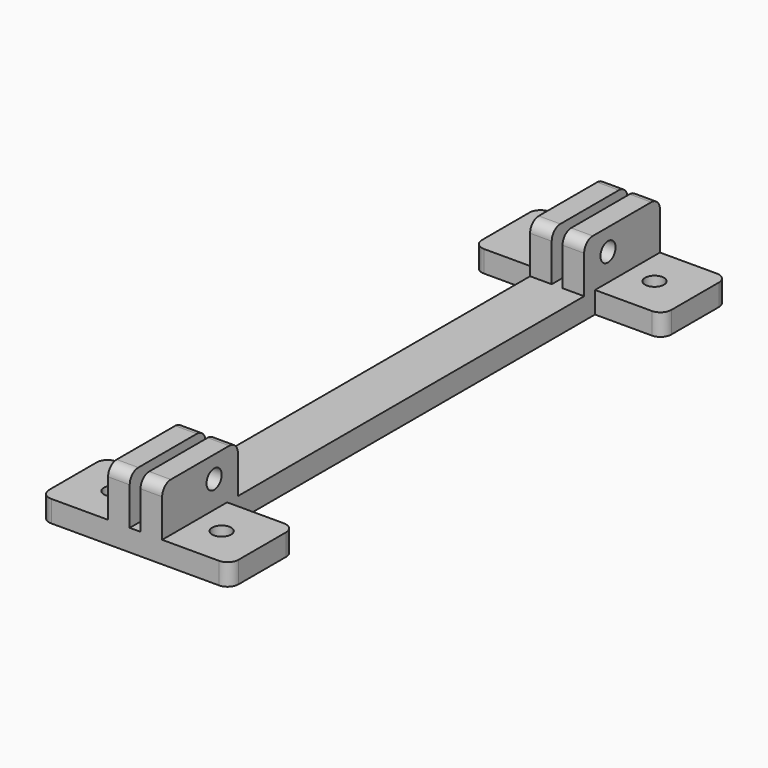
from build123d import *

# Parameters (mm, degrees)
SKETCH_R          = 1.75
PAD_DEPTH         = 4
SKETCH001_W       = 4
SKETCH001_H       = 115
PAD001_DEPTH      = 13
SKETCH002_R       = 1.75
SKETCH002_W       = 80
SKETCH002_H       = 9
POCKET_DEPTH      = 10
POCKET_DEPTH_BACK = -5
FILLET_R          = 2


with BuildPart() as part:
    # Sketch → Pad (new body)
    with BuildSketch(Plane.XY):
        Polygon((-17.5, 57.5), (17.5, 57.5), (17.5, 42.5), (5, 42.5), (5, -42.5), (17.5, -42.5), (17.5, -57.5), (-17.5, -57.5), (-17.5, -42.5), (-5, -42.5), (-5, 42.5), (-17.5, 42.5), align=None)
        with Locations((-10, 50)):
            Circle(SKETCH_R, mode=Mode.SUBTRACT)
        with Locations((10, 50)):
            Circle(SKETCH_R, mode=Mode.SUBTRACT)
        with Locations((-10, -50)):
            Circle(SKETCH_R, mode=Mode.SUBTRACT)
        with Locations((10, -50)):
            Circle(SKETCH_R, mode=Mode.SUBTRACT)
    extrude(amount=PAD_DEPTH)

    # Sketch001 → Pad001 (join)
    with BuildSketch(Plane.XY):
        with Locations((-3, 0)):
            Rectangle(SKETCH001_W, SKETCH001_H)
        with Locations((3, 0)):
            Rectangle(SKETCH001_W, SKETCH001_H)
    extrude(amount=PAD001_DEPTH)

    # Sketch002 → Pocket (cut, two sides)
    with BuildSketch(Plane.YZ) as pocket_sk:
        with Locations((45.5, 9)):
            Circle(SKETCH002_R)
        with Locations((-45.5, 9)):
            Circle(SKETCH002_R)
        with Locations((0, 8.5)):
            Rectangle(SKETCH002_W, SKETCH002_H)
    extrude(amount=-POCKET_DEPTH, mode=Mode.SUBTRACT)
    extrude(pocket_sk.sketch, amount=-POCKET_DEPTH_BACK, mode=Mode.SUBTRACT)

    # Fillet
    fillet_edges = [part.edges().sort_by_distance(p)[0] for p in [
        (-3, -40, 13),
        (3, -40, 13),
        (-3, 40, 13),
        (3, 40, 13),
        (-3, 57.5, 13),
        (3, 57.5, 13),
        (17.5, 57.5, 2),
        (17.5, 42.5, 2),
        (3, -57.5, 13),
        (-3, -57.5, 13),
        (17.5, -42.5, 2),
        (17.5, -57.5, 2),
        (-17.5, -42.5, 2),
        (-17.5, -57.5, 2),
        (-17.5, 42.5, 2),
        (-17.5, 57.5, 2),
    ]]
    fillet(fillet_edges, radius=FILLET_R)


solid = part.part
